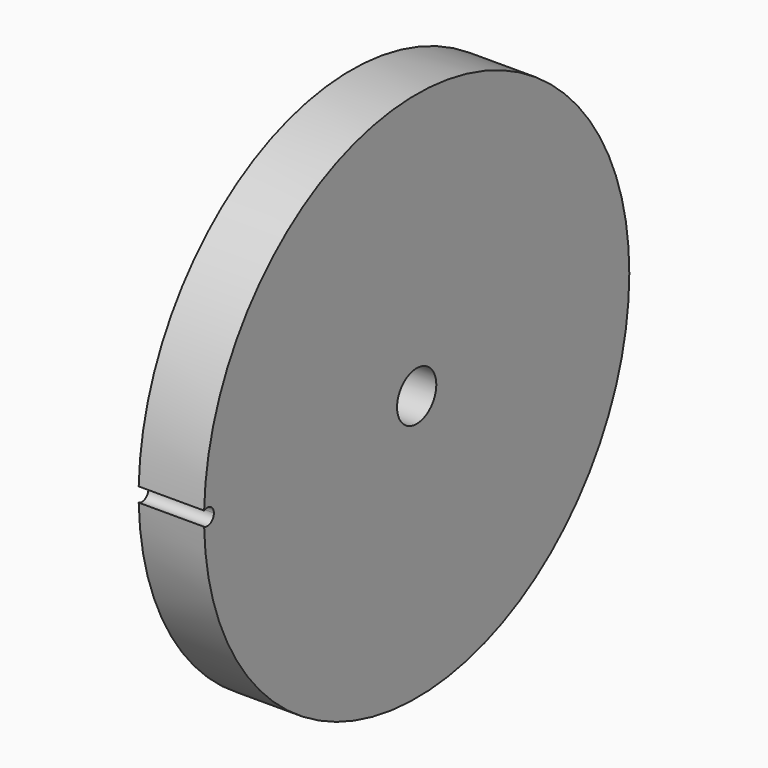
from build123d import *

# Parameters (mm, degrees)
F0_R     = 9.525
F1_DEPTH = 12.7


with BuildPart() as f1:
    # F0 (on Right) → F1 (new body, symmetric)
    with BuildSketch(Plane.YZ):
        with BuildLine():
            ThreePointArc((-103.150293, 2.770779), (-99.994004, 2.738869), (-98.425, 0))
            ThreePointArc((-98.425, 0), (-99.994004, -2.738869), (-103.150293, -2.770779))
            ThreePointArc((-103.150293, -2.770779), (1.385514, -103.178198), (103.1875, 0))
            ThreePointArc((103.1875, 0), (1.385514, 103.178198), (-103.150293, 2.770779))
        make_face()
        Circle(F0_R, mode=Mode.SUBTRACT)
    extrude(amount=F1_DEPTH, both=True)


solid = f1.part
